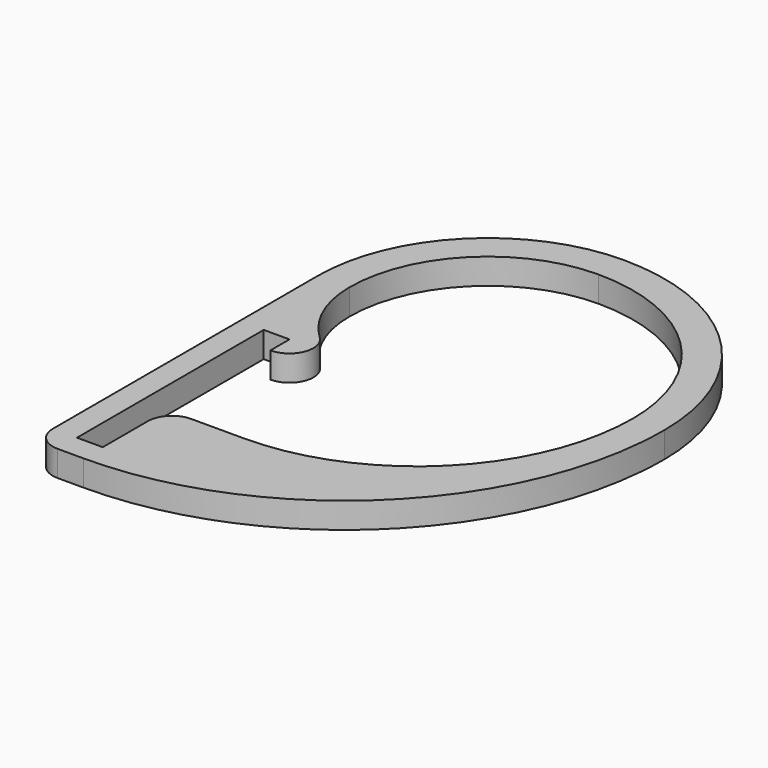
from build123d import *

# Parameters (mm, degrees)
F2_DEPTH = 6.4


with BuildPart() as f2:
    # F1 (on Top) → F2 (new body)
    with BuildSketch(Plane.XY):
        with BuildLine():
            Line((-46.5, 4.3), (-46.5, -78.05))
            ThreePointArc((-46.5, -78.05), (-44.7426406871, -82.2926406871), (-40.5, -84.05))
            Line((-40.5, -84.05), (-34.1, -84.05))
            add(Edge.make_bspline(
                [(-34.1, -84.05), (46.5, -84.05), (46.5, -4.3)],
                knots=[4.7123889804, 4.7123889804, 4.7123889804, 6.2831853072, 6.2831853072, 6.2831853072], degree=2, weights=[1, 0.7071067812, 1]))
            ThreePointArc((46.5, -4.3), (31.6210244843, 31.6210244843), (-4.3, 46.5))
            ThreePointArc((-4.3, 46.5), (-34.1399061661, 34.1399061661), (-46.5, 4.3))
        make_face()
        with BuildLine():
            Line((-34.1, -78.05), (-40.5, -78.05))
            Line((-40.5, -78.05), (-40.5, -20.05))
            Line((-40.5, -20.05), (-34.1, -20.05))
            Line((-34.1, -20.05), (-34.1, -25.9702287672))
            ThreePointArc((-34.1, -25.9702287672), (-28.5967900968, -22.2326106882), (-30.0422633054, -15.7390973598))
            ThreePointArc((-30.0422633054, -15.7390973598), (-36.4430153205, -6.6146899597), (-38.7, 4.3))
            ThreePointArc((-38.7, 4.3), (-28.6244732728, 28.6244732728), (-4.3, 38.7))
            ThreePointArc((-4.3, 38.7), (26.105591591, 26.105591591), (38.7, -4.3))
            ThreePointArc((38.7, -4.3), (22.9569894888, -42.3069894888), (-15.05, -58.05))
            Line((-15.05, -58.05), (-28.1, -58.05))
            ThreePointArc((-28.1, -58.05), (-32.3426406871, -59.8073593129), (-34.1, -64.05))
            Line((-34.1, -64.05), (-34.1, -78.05))
        make_face(mode=Mode.SUBTRACT)
    extrude(amount=F2_DEPTH)


solid = f2.part
